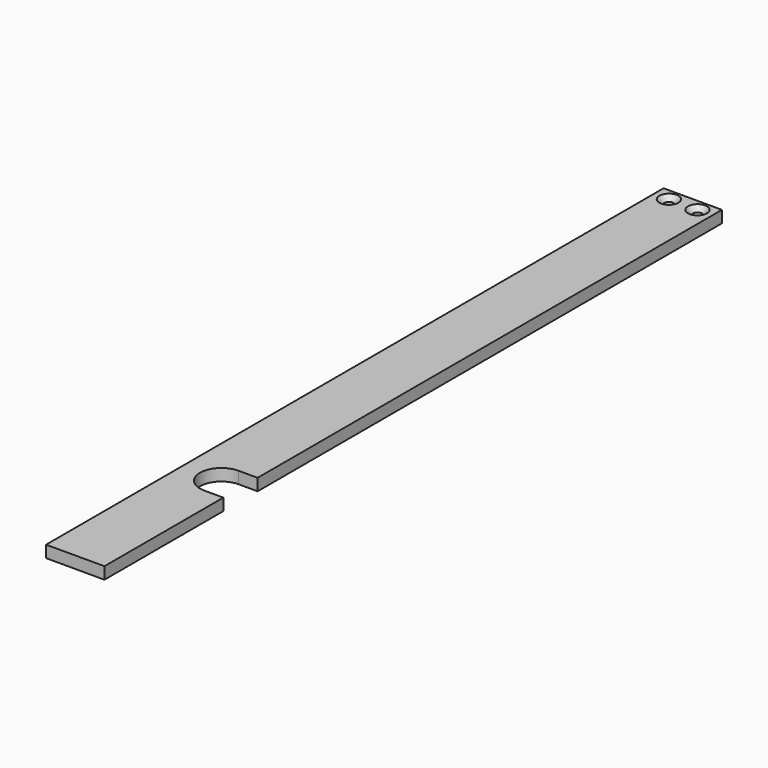
from build123d import *

# Parameters (mm, degrees)
PAD026_DEPTH    = 5
SKETCH058_R     = 2
POCKET036_DEPTH = 5.001
CHAMFER020_SIZE = 2


with BuildPart() as part:
    # Sketch053 → Pad026 (new body)
    with BuildSketch(Plane.XY):
        with BuildLine():
            Line((-81.323184, -45.417713), (-81.323184, -107.8))
            Line((-81.323184, -107.8), (-105.823184, -107.8))
            Line((-105.823184, -107.8), (-105.823184, 216.2))
            Line((-105.823184, 216.2), (-81.323184, 216.2))
            Line((-81.323184, 216.2), (-81.323184, -27.417713))
            Line((-89.323184, -27.417713), (-81.323184, -27.417713))
            ThreePointArc((-89.323184, -27.417713), (-98.323184, -36.417713), (-89.323184, -45.417713))
            Line((-89.323184, -45.417713), (-81.323184, -45.417713))
        make_face()
    extrude(amount=PAD026_DEPTH)

    # Sketch058 (on Face10 of Pad026) → Pocket036 (cut, through all)
    with BuildSketch(Plane.XY.offset(5)):
        with Locations((-99.573184, 211.2)):
            Circle(SKETCH058_R)
        with Locations((-87.573184, 211.2)):
            Circle(SKETCH058_R)
    extrude(amount=-POCKET036_DEPTH, mode=Mode.SUBTRACT)

    # Chamfer020
    chamfer020_edges = [part.edges().sort_by_distance(p)[0] for p in [
        (-89.573184, 211.2, 5),
        (-101.573184, 211.2, 5),
    ]]
    chamfer(chamfer020_edges, length=CHAMFER020_SIZE)


with BuildPart() as part_1:
    # Body019 placement: moved
    add(part.part.moved(Location((-50, 0, 15.5))))


solid = part_1.part
